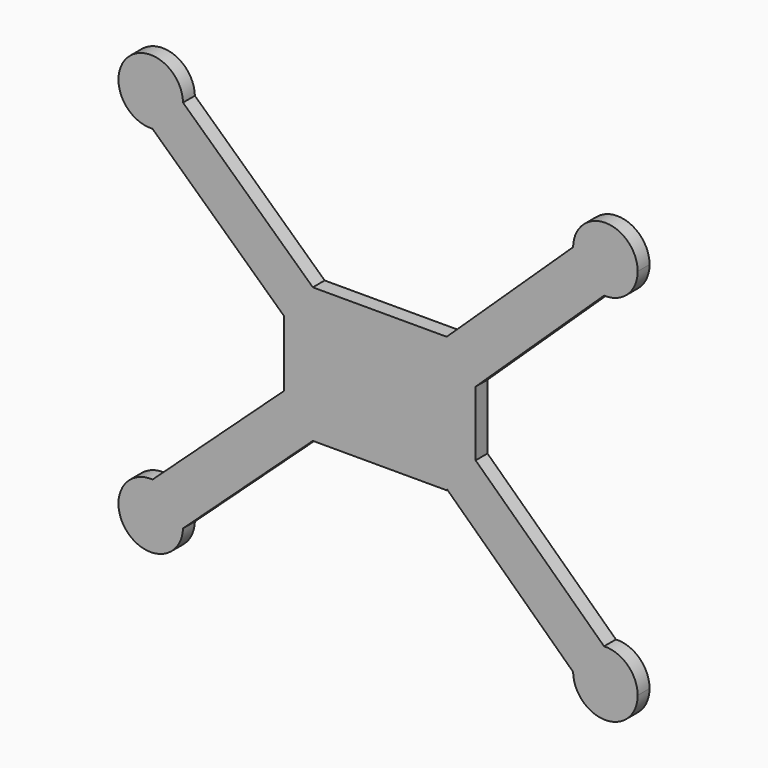
from build123d import *

# Parameters (mm, degrees)
F1_DEPTH = 3.048


with BuildPart() as f1:
    # F0 (on Front) → F1 (new body)
    with BuildSketch(Plane.XZ):
        with BuildLine():
            ThreePointArc((-40.039819, 24.568676), (-40.04023, 24.642439), (-40.041462, 24.716192))
            ThreePointArc((-40.041462, 24.716192), (-51.523489, 29.074453), (-46.315227, 17.95216))
            ThreePointArc((-46.315227, 17.95216), (-41.858186, 20.009098), (-40.039819, 24.568676))
        make_face()
        with BuildLine():
            Line((-19.331162, -7.077152), (-13.392727, 0))
            Line((-13.392727, 0), (-40.041462, 24.716192))
            ThreePointArc((-40.041462, 24.716192), (-40.04023, 24.642439), (-40.039819, 24.568676))
            ThreePointArc((-40.039819, 24.568676), (-41.858186, 20.009098), (-46.315227, 17.95216))
            Line((-46.315227, 17.95216), (-19.331162, -7.077152))
        make_face()
        Polygon((14.085453, 0), (-13.392727, 0), (-19.331162, -7.077152), (-19.331162, -20.666365), (-13.392727, -27.743516), (14.085453, -27.743516), (14.209385, -27.59582), (20.023889, -20.666365), (20.023889, -20.401029), (20.023889, -7.077152), align=None)
        with BuildLine():
            Line((40.040169, 24.6367), (14.085453, 0))
            Line((14.085453, 0), (20.023889, -7.077152))
            Line((20.023889, -7.077152), (46.388558, 17.948684))
            ThreePointArc((46.388558, 17.948684), (41.86004, 20.007143), (40.040169, 24.6367))
        make_face()
        with BuildLine():
            ThreePointArc((53.291393, 24.568676), (46.699619, 31.194376), (40.040169, 24.6367))
            ThreePointArc((40.040169, 24.6367), (41.86004, 20.007143), (46.388558, 17.948684))
            ThreePointArc((46.388558, 17.948684), (51.251748, 19.786589), (53.291393, 24.568676))
        make_face()
        with BuildLine():
            Line((46.388558, -45.426865), (20.023889, -20.401029))
            Line((20.023889, -20.401029), (20.023889, -20.666365))
            Line((20.023889, -20.666365), (14.209385, -27.59582))
            Line((14.209385, -27.59582), (40.040169, -52.114881))
            ThreePointArc((40.040169, -52.114881), (41.86004, -47.485324), (46.388558, -45.426865))
        make_face()
        with BuildLine():
            ThreePointArc((53.291393, -52.046857), (51.251748, -47.26477), (46.388558, -45.426865))
            ThreePointArc((46.388558, -45.426865), (41.86004, -47.485324), (40.040169, -52.114881))
            ThreePointArc((40.040169, -52.114881), (46.699619, -58.672556), (53.291393, -52.046857))
        make_face()
        with BuildLine():
            Line((-13.392727, -27.743516), (-19.331162, -20.666365))
            Line((-19.331162, -20.666365), (-46.284951, -45.432014))
            ThreePointArc((-46.284951, -45.432014), (-41.847765, -47.498291), (-40.039819, -52.046857))
            ThreePointArc((-40.039819, -52.046857), (-40.04043, -52.13678), (-40.04226, -52.226687))
            Line((-40.04226, -52.226687), (-13.392727, -27.743516))
        make_face()
        with BuildLine():
            ThreePointArc((-40.039819, -52.046857), (-41.847765, -47.498291), (-46.284951, -45.432014))
            ThreePointArc((-46.284951, -45.432014), (-51.544735, -56.529618), (-40.04226, -52.226687))
            ThreePointArc((-40.04226, -52.226687), (-40.04043, -52.13678), (-40.039819, -52.046857))
        make_face()
    extrude(amount=F1_DEPTH)


solid = f1.part
